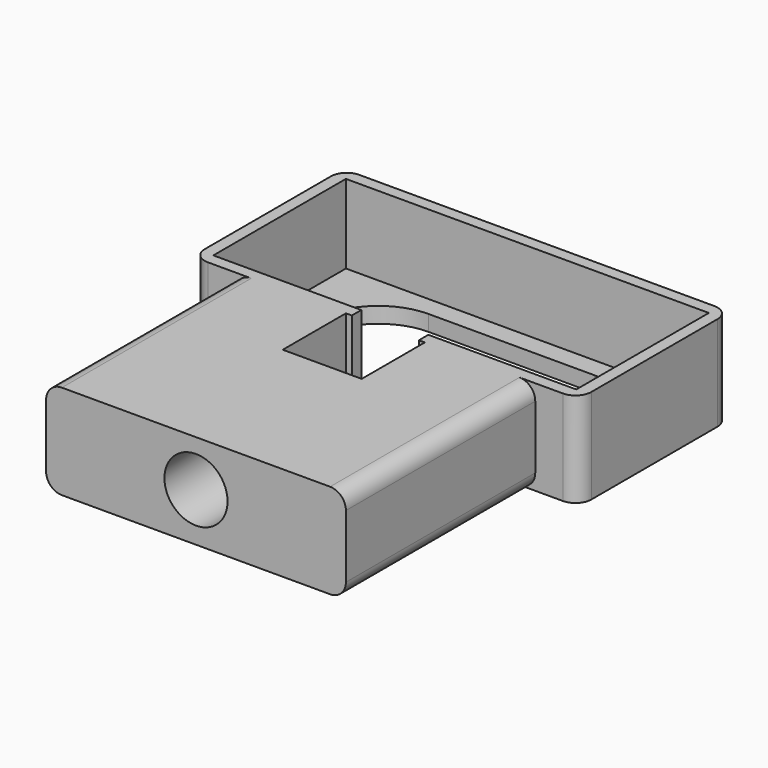
from build123d import *

# Parameters (mm, degrees)
SKETCH_W        = 49
SKETCH_H        = 24
PAD_DEPTH       = 12
POCKET_DEPTH    = 12.001
SKETCH002_W     = 46
SKETCH002_H     = 21
POCKET001_DEPTH = 10
SKETCH003_W     = 8.5
SKETCH003_H     = 9.019632
POCKET002_DEPTH = 10
SKETCH004_W     = 14
SKETCH004_H     = 12
PAD001_DEPTH    = 10
SKETCH005_W     = 38
SKETCH005_H     = 12
PAD002_DEPTH    = 20
SKETCH006_R     = 4
POCKET003_DEPTH = 21
FILLET_R        = 2
FILLET001_R     = 2


with BuildPart() as part:
    # Sketch → Pad (new body)
    with BuildSketch(Plane.XY):
        Rectangle(SKETCH_W, SKETCH_H)
    extrude(amount=PAD_DEPTH)

    # Sketch001 (on Face6 of Pad) → Pocket (cut, through all)
    with BuildSketch(Plane.XY.offset(12)):
        with BuildLine():
            ThreePointArc((-10.5, 8), (-18.5, 0), (-10.5, -8))
            Line((-10.5, -8), (10.5, -8))
            ThreePointArc((10.5, -8), (18.5, 0), (10.5, 8))
            Line((10.5, 8), (-10.5, 8))
        make_face()
    extrude(amount=-POCKET_DEPTH, mode=Mode.SUBTRACT)

    # Sketch002 (on Face5 of Pocket) → Pocket001 (cut)
    with BuildSketch(Plane.XY.offset(12)):
        Rectangle(SKETCH002_W, SKETCH002_H)
    extrude(amount=-POCKET001_DEPTH, mode=Mode.SUBTRACT)

    # Sketch003 (on Face5 of Pocket001) → Pocket002 (cut)
    with BuildSketch(Plane.XY.offset(12)):
        with Locations((0, -11.77937)):
            Rectangle(SKETCH003_W, SKETCH003_H)
    extrude(amount=-POCKET002_DEPTH, mode=Mode.SUBTRACT)

    # Sketch004 (on Face6 of Pocket002) → Pad001 (join)
    with BuildSketch(Plane.XZ.offset(12)):
        with Locations((-12, 6)):
            Rectangle(SKETCH004_W, SKETCH004_H)
        with Locations((12, 6)):
            Rectangle(SKETCH004_W, SKETCH004_H)
    extrude(amount=PAD001_DEPTH)

    # Sketch005 (on Face30 of Pad001) → Pad002 (join)
    with BuildSketch(Plane.XZ.offset(22)):
        with Locations((0, 6)):
            Rectangle(SKETCH005_W, SKETCH005_H)
    extrude(amount=PAD002_DEPTH)

    # Sketch006 (on Face36 of Pad002) → Pocket003 (cut)
    with BuildSketch(Plane.XZ.offset(42)):
        with Locations((0, 6.129715)):
            Circle(SKETCH006_R)
    extrude(amount=-POCKET003_DEPTH, mode=Mode.SUBTRACT)

    # Fillet
    fillet_edges = [part.edges().sort_by_distance(p)[0] for p in [
        (24.5, -12, 6),
        (24.5, 12, 6),
        (-24.5, 12, 6),
        (-24.5, -12, 6),
    ]]
    fillet(fillet_edges, radius=FILLET_R)

    # Fillet001
    fillet001_edges = [part.edges().sort_by_distance(p)[0] for p in [
        (19, -32, 0),
        (-19, -32, 0),
        (19, -32, 12),
        (-19, -32, 12),
    ]]
    fillet(fillet001_edges, radius=FILLET001_R)


solid = part.part
